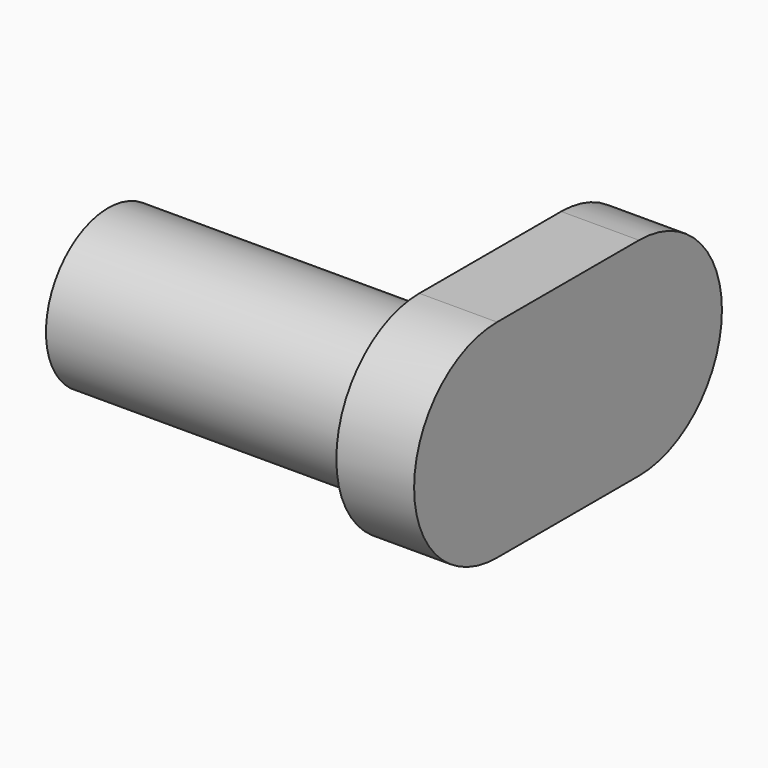
from build123d import *

# Parameters (mm, degrees)
F0_R     = 7.5
F1_DEPTH = 30
F3_DEPTH = 7.5


with BuildPart() as f1:
    # F0 (on Right) → F1 (new body)
    with BuildSketch(Plane.YZ):
        Circle(F0_R)
    extrude(amount=F1_DEPTH)

    # F2 (on face) → F3 (join)
    with BuildSketch(Plane.YZ.offset(30)):
        with BuildLine():
            Line((17.09929, 10), (0, 10))
            ThreePointArc((0, 10), (-10, 0), (0, -10))
            Line((0, -10), (17.09929, -10))
            ThreePointArc((17.09929, -10), (27.09929, 0), (17.09929, 10))
        make_face()
    extrude(amount=F3_DEPTH)


solid = f1.part
